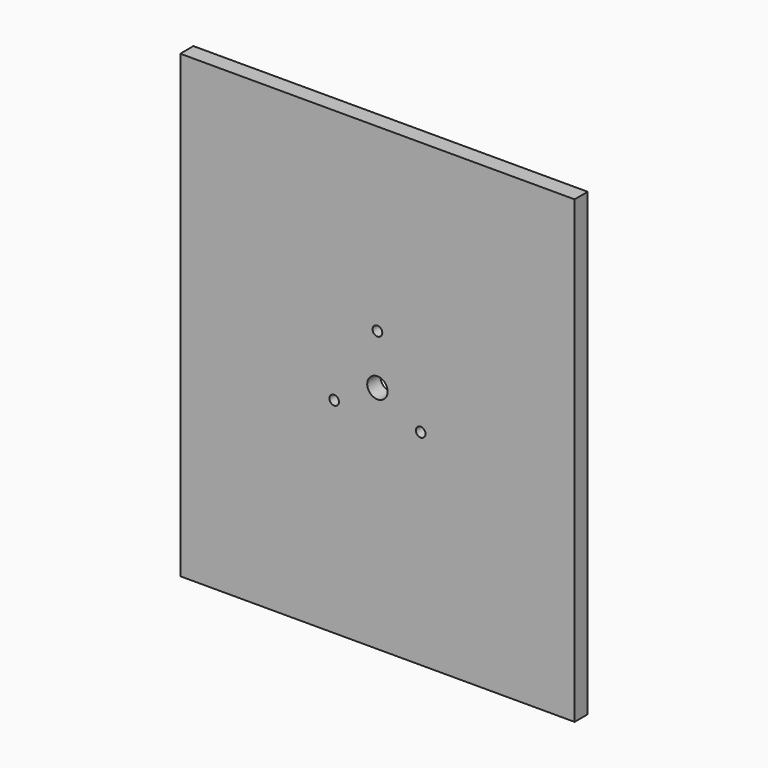
from build123d import *

# Parameters (mm, degrees)
F0_W     = 152.4
F0_H     = 177.8
F0_R     = 1.8415
F0_R_2   = 1.85447
F0_R_3   = 3.942651
F0_R_4   = 1.873541
F1_DEPTH = 6.35


with BuildPart() as f1:
    # F0 (on Front) → F1 (new body)
    with BuildSketch(Plane.XZ):
        Rectangle(F0_W, F0_H)
        with Locations((-16.722151, -9.654538)):
            Circle(F0_R, mode=Mode.SUBTRACT)
        with Locations((16.717754, -9.652)):
            Circle(F0_R_2, mode=Mode.SUBTRACT)
        Circle(F0_R_3, mode=Mode.SUBTRACT)
        with Locations((0, 19.304)):
            Circle(F0_R_4, mode=Mode.SUBTRACT)
    extrude(amount=F1_DEPTH)


solid = f1.part
